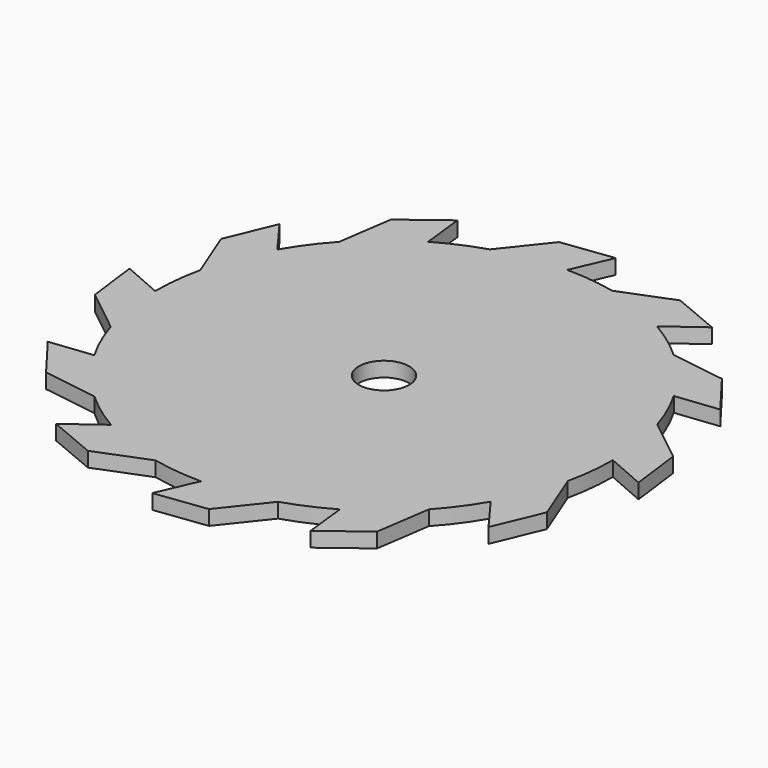
from build123d import *

# Parameters (mm, degrees)
F0_R     = 2.75
F1_DEPTH = 1.62


with BuildPart() as f1:
    # F0 (on Top) → F1 (new body)
    with BuildSketch(Plane.XY):
        with BuildLine():
            ThreePointArc((24.405646, -5.418899), (24.850967, -2.725698), (25, 0))
            ThreePointArc((25, 0), (24.709654, 3.799081), (23.845358, 7.509919))
            ThreePointArc((23.845358, 7.509919), (22.884418, 10.06496), (21.650635, 12.5))
            ThreePointArc((21.650635, 12.5), (19.499647, 15.644928), (16.895727, 18.42646))
            ThreePointArc((16.895727, 18.42646), (14.786007, 20.15872), (12.5, 21.650635))
            ThreePointArc((12.5, 21.650635), (9.064726, 23.298728), (5.418899, 24.405646))
            ThreePointArc((5.418899, 24.405646), (2.725698, 24.850967), (0, 25))
            ThreePointArc((0, 25), (-3.799081, 24.709654), (-7.509919, 23.845358))
            ThreePointArc((-7.509919, 23.845358), (-10.06496, 22.884418), (-12.5, 21.650635))
            ThreePointArc((-12.5, 21.650635), (-15.644928, 19.499647), (-18.42646, 16.895727))
            ThreePointArc((-18.42646, 16.895727), (-20.15872, 14.786007), (-21.650635, 12.5))
            ThreePointArc((-21.650635, 12.5), (-23.298728, 9.064726), (-24.405646, 5.418899))
            ThreePointArc((-24.405646, 5.418899), (-24.850967, 2.725698), (-25, 0))
            ThreePointArc((-25, 0), (-24.709654, -3.799081), (-23.845358, -7.509919))
            ThreePointArc((-23.845358, -7.509919), (-22.884418, -10.06496), (-21.650635, -12.5))
            ThreePointArc((-21.650635, -12.5), (-19.499647, -15.644928), (-16.895727, -18.42646))
            ThreePointArc((-16.895727, -18.42646), (-14.786007, -20.15872), (-12.5, -21.650635))
            ThreePointArc((-12.5, -21.650635), (-9.064726, -23.298728), (-5.418899, -24.405646))
            ThreePointArc((-5.418899, -24.405646), (-2.725698, -24.850967), (0, -25))
            ThreePointArc((0, -25), (3.799081, -24.709654), (7.509919, -23.845358))
            ThreePointArc((7.509919, -23.845358), (10.06496, -22.884418), (12.5, -21.650635))
            ThreePointArc((12.5, -21.650635), (15.644928, -19.499647), (18.42646, -16.895727))
            ThreePointArc((18.42646, -16.895727), (20.15872, -14.786007), (21.650635, -12.5))
            ThreePointArc((21.650635, -12.5), (23.298728, -9.064726), (24.405646, -5.418899))
        make_face()
        Circle(F0_R, mode=Mode.SUBTRACT)
        with BuildLine():
            ThreePointArc((-7.509919, 23.845358), (-3.799081, 24.709654), (0, 25))
            Line((0, 25), (1.87548, 29.298078))
            Line((1.87548, 29.298078), (-3.745994, 28.585496))
            Line((-3.745994, 28.585496), (-7.509919, 23.845358))
        make_face()
        with BuildLine():
            ThreePointArc((-18.42646, 16.895727), (-15.644928, 19.499647), (-12.5, 21.650635))
            Line((-12.5, 21.650635), (-13.024826, 26.31062))
            Line((-13.024826, 26.31062), (-17.536874, 22.882769))
            Line((-17.536874, 22.882769), (-18.42646, 16.895727))
        make_face()
        with BuildLine():
            ThreePointArc((-24.405646, 5.418899), (-23.298728, 9.064726), (-21.650635, 12.5))
            Line((-21.650635, 12.5), (-24.43514, 16.273252))
            Line((-24.43514, 16.273252), (-26.628763, 11.048622))
            Line((-26.628763, 11.048622), (-24.405646, 5.418899))
        make_face()
        with BuildLine():
            Line((-28.585496, -3.745994), (-23.845358, -7.509919))
            ThreePointArc((-23.845358, -7.509919), (-24.709654, -3.799081), (-25, 0))
            Line((-25, 0), (-29.298078, 1.87548))
            Line((-29.298078, 1.87548), (-28.585496, -3.745994))
        make_face()
        with BuildLine():
            ThreePointArc((23.845358, 7.509919), (24.709654, 3.799081), (25, 0))
            Line((25, 0), (29.298078, -1.87548))
            Line((29.298078, -1.87548), (28.585496, 3.745994))
            Line((28.585496, 3.745994), (23.845358, 7.509919))
        make_face()
        with BuildLine():
            Line((26.628763, -11.048622), (24.405646, -5.418899))
            ThreePointArc((24.405646, -5.418899), (23.298728, -9.064726), (21.650635, -12.5))
            Line((21.650635, -12.5), (24.43514, -16.273252))
            Line((24.43514, -16.273252), (26.628763, -11.048622))
        make_face()
        with BuildLine():
            Line((-22.882769, -17.536874), (-16.895727, -18.42646))
            ThreePointArc((-16.895727, -18.42646), (-19.499647, -15.644928), (-21.650635, -12.5))
            Line((-21.650635, -12.5), (-26.31062, -13.024826))
            Line((-26.31062, -13.024826), (-22.882769, -17.536874))
        make_face()
        with BuildLine():
            Line((-11.048622, -26.628763), (-5.418899, -24.405646))
            ThreePointArc((-5.418899, -24.405646), (-9.064726, -23.298728), (-12.5, -21.650635))
            Line((-12.5, -21.650635), (-16.273252, -24.43514))
            Line((-16.273252, -24.43514), (-11.048622, -26.628763))
        make_face()
        with BuildLine():
            Line((3.745994, -28.585496), (7.509919, -23.845358))
            ThreePointArc((7.509919, -23.845358), (3.799081, -24.709654), (0, -25))
            Line((0, -25), (-1.87548, -29.298078))
            Line((-1.87548, -29.298078), (3.745994, -28.585496))
        make_face()
        with BuildLine():
            Line((17.536874, -22.882769), (18.42646, -16.895727))
            ThreePointArc((18.42646, -16.895727), (15.644928, -19.499647), (12.5, -21.650635))
            Line((12.5, -21.650635), (13.024826, -26.31062))
            Line((13.024826, -26.31062), (17.536874, -22.882769))
        make_face()
        with BuildLine():
            ThreePointArc((5.418899, 24.405646), (9.064726, 23.298728), (12.5, 21.650635))
            Line((12.5, 21.650635), (16.273252, 24.43514))
            Line((16.273252, 24.43514), (11.048622, 26.628763))
            Line((11.048622, 26.628763), (5.418899, 24.405646))
        make_face()
        with BuildLine():
            ThreePointArc((16.895727, 18.42646), (19.499647, 15.644928), (21.650635, 12.5))
            Line((21.650635, 12.5), (26.31062, 13.024826))
            Line((26.31062, 13.024826), (22.882769, 17.536874))
            Line((22.882769, 17.536874), (16.895727, 18.42646))
        make_face()
    extrude(amount=F1_DEPTH)


solid = f1.part
